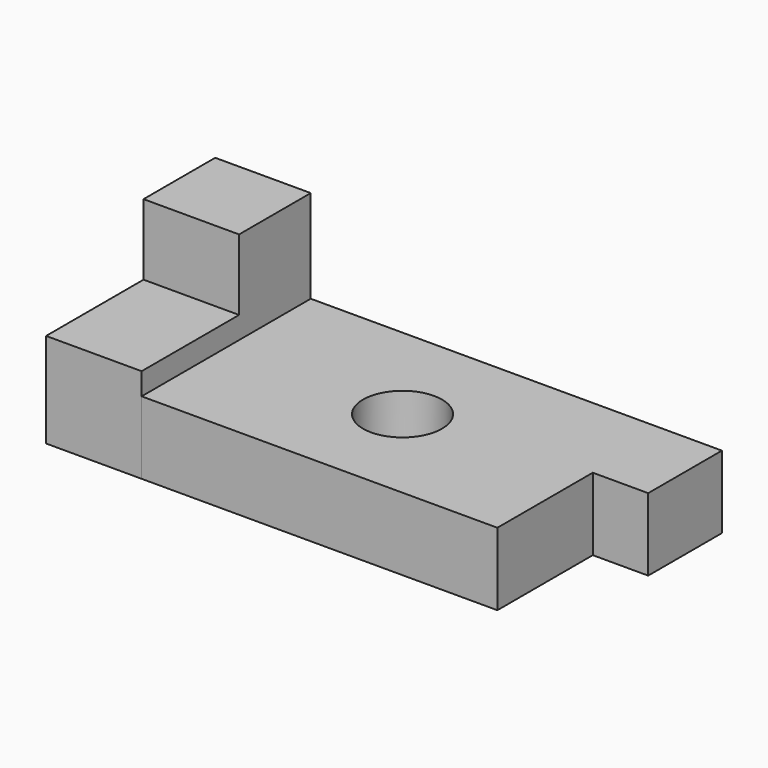
from build123d import *

# Parameters (mm, degrees)
F0_W     = 94.572848
F0_H     = 56.195463
F0_R     = 10.49808
F1_DEPTH = 19.304
F2_W     = 23.812594
F2_H     = 18.846037
F3_DEPTH = 25.4
F4_W     = 24.497905
F4_H     = 19.304
F5_DEPTH = 14.732


with BuildPart() as f1:
    # F0 (on Top) → F1 (new body)
    with BuildSketch(Plane.XY):
        with Locations((12.33559, 0.512037)):
            Rectangle(F0_W, F0_H)
        with Locations((12.33559, 0)):
            Circle(F0_R, mode=Mode.SUBTRACT)
    extrude(amount=F1_DEPTH)

    # F2 (on face) → F3 (join)
    with BuildSketch(Plane(origin=(-34.950834, 0, 0), x_dir=(0, -1, 0), z_dir=(-1, 0, 0))):
        with Locations((-16.703471, 34.606232)):
            Rectangle(F2_W, F2_H)
        Polygon((-4.797174, 25.183214), (-28.609768, 25.183214), (-28.609768, 0), (27.585695, 0), (27.585695, 25.183214), align=None)
    extrude(amount=F3_DEPTH)

    # F4 (on face) → F5 (join)
    with BuildSketch(Plane.YZ.offset(59.622014)):
        with Locations((16.360816, 9.652)):
            Rectangle(F4_W, F4_H)
    extrude(amount=F5_DEPTH)


solid = f1.part
